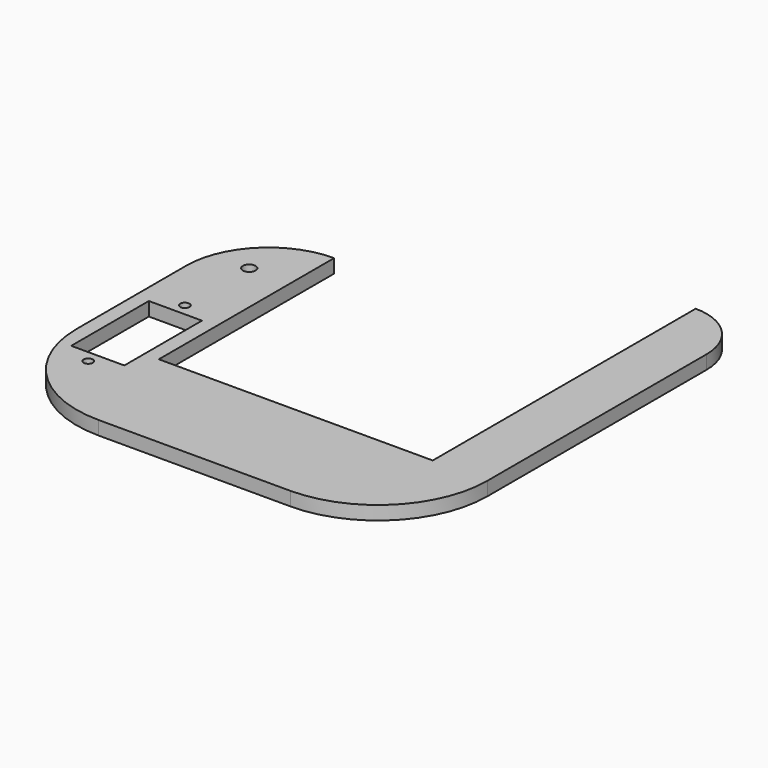
from build123d import *

# Parameters (mm, degrees)
F0_R     = 1.0668
F0_W     = 12.319
F0_H     = 22.5044
F0_R_2   = 1.4732
F1_DEPTH = 3.175


with BuildPart() as f1:
    # F0 (on Top) → F1 (new body)
    with BuildSketch(Plane.XY):
        with BuildLine():
            Line((34.925, 82.804), (34.925, 12.7))
            Line((34.925, 12.7), (-28.575, 12.7))
            Line((-28.575, 12.7), (-28.575, 63.5))
            ThreePointArc((-28.575, 63.5), (-42.045384, 57.920384), (-47.625, 44.45))
            Line((-47.625, 44.45), (-47.625, 12.7))
            ThreePointArc((-47.625, 12.7), (-40.185512, -5.260512), (-22.225, -12.7))
            Line((-22.225, -12.7), (22.225, -12.7))
            ThreePointArc((22.225, -12.7), (40.185512, -5.260512), (47.625, 12.7))
            Line((47.625, 12.7), (47.625, 76.2))
            ThreePointArc((47.625, 76.2), (43.905256, 85.180256), (34.925, 88.9))
            Line((34.925, 88.9), (34.925, 82.804))
        make_face()
        with Locations((-38.1, 4.1656)):
            Circle(F0_R, mode=Mode.SUBTRACT)
        with Locations((-38.1, 18.161)):
            Rectangle(F0_W, F0_H, mode=Mode.SUBTRACT)
        with Locations((-38.1, 32.1564)):
            Circle(F0_R, mode=Mode.SUBTRACT)
        with Locations((-38.1, 50.8)):
            Circle(F0_R_2, mode=Mode.SUBTRACT)
    extrude(amount=F1_DEPTH)


solid = f1.part
